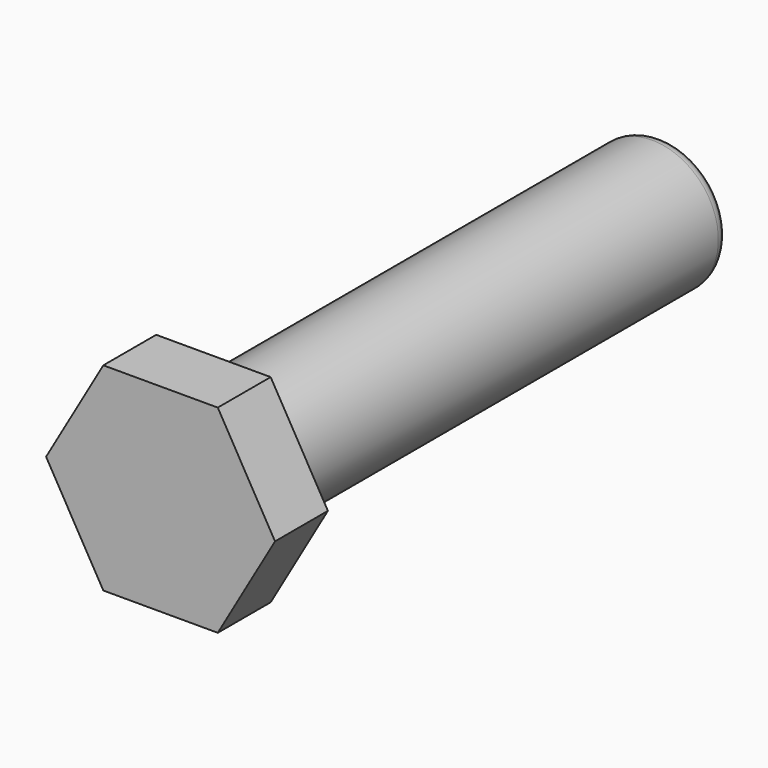
from build123d import *

# Parameters (mm, degrees)
F1_DEPTH = 6.35
F2_R     = 6.35
F3_DEPTH = 53.975
F4_R     = 1.27


with BuildPart() as f1:
    # F0 (on Front) → F1 (new body)
    with BuildSketch(Plane.XZ):
        Polygon((-5.499261, 9.525), (-10.998523, 0), (-5.499261, -9.525), (5.499261, -9.525), (10.998523, 0), (5.499261, 9.525), align=None)
    extrude(amount=F1_DEPTH)

    # F2 (on face) → F3 (join)
    with BuildSketch(Plane(origin=(0, 0, 0), x_dir=(-1, 0, 0), z_dir=(0, 1, 0))):
        Circle(F2_R)
    extrude(amount=F3_DEPTH)

    # F4
    f4_edges = [f1.edges().sort_by_distance(p)[0] for p in [
        (6.35, 53.975, 0),
    ]]
    fillet(f4_edges, radius=F4_R)


solid = f1.part
